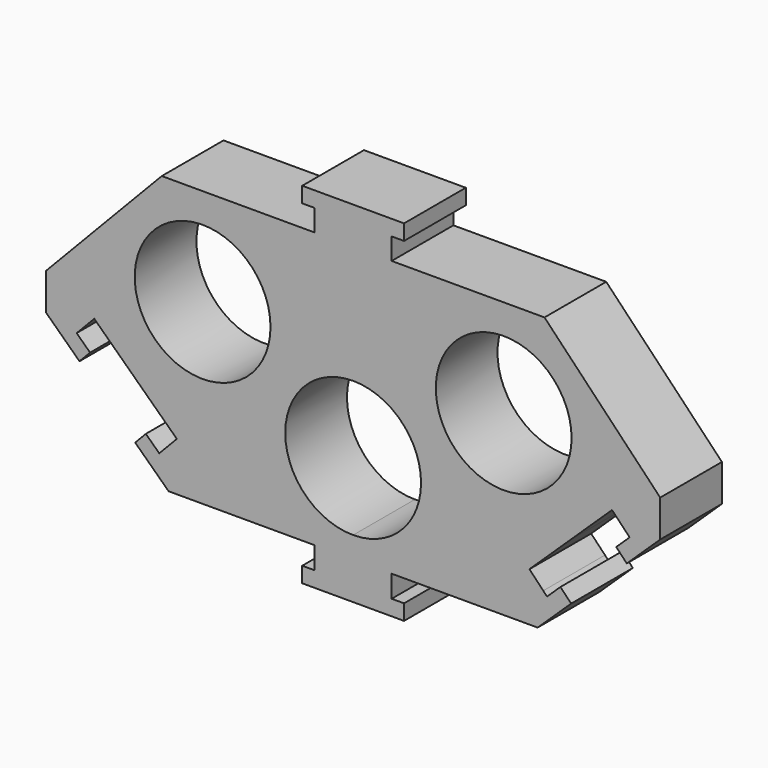
from build123d import *

# Parameters (mm, degrees)
F0_R     = 11.176
F1_DEPTH = 12.7


with BuildPart() as f1:
    # F0 (on Front) → F1 (new body)
    with BuildSketch(Plane.XZ):
        Polygon((1.7e-05, 36.721412), (-8.37922, 36.721412), (-8.37922, 34.171009), (-6.342577, 34.171009), (-6.342577, 33.589403), (-6.342577, 30.610587), (-31.50212, 30.610587), (-50.548049, 10.694886), (-50.548049, 4.618095), (-45.048748, -0.641037), (-43.30637, 1.18091), (-45.512976, 3.291148), (-44.893687, 3.938718), (-42.617581, 6.318767), (-42.432024, 6.141314), (-35.819507, -0.182417), (-29.021433, -6.6836), (-31.297539, -9.06365), (-31.916828, -9.711219), (-34.123434, -7.600982), (-35.883531, -9.438151), (-30.372486, -14.708514), (-6.342577, -14.708514), (-6.342577, -14.78279), (-6.342577, -17.761606), (-6.342577, -18.343212), (-8.37922, -18.343212), (-8.37922, -20.893615), (1.7e-05, -20.893615), (8.379254, -20.893615), (8.379254, -18.343212), (6.342612, -18.343212), (6.342612, -17.761606), (6.342612, -14.78279), (6.342612, -14.708514), (30.37252, -14.708514), (35.883565, -9.438151), (34.123468, -7.600982), (31.916862, -9.711219), (31.297574, -9.06365), (29.021468, -6.6836), (35.819542, -0.182417), (42.432059, 6.141314), (42.617615, 6.318767), (44.893722, 3.938718), (45.51301, 3.291148), (43.306404, 1.18091), (45.048782, -0.641037), (50.548084, 4.618095), (50.548084, 10.694886), (31.502155, 30.610587), (6.342612, 30.610587), (6.342612, 33.589403), (6.342612, 34.171009), (8.379254, 34.171009), (8.379254, 36.721412), align=None)
        with BuildLine():
            ThreePointArc((1.7e-05, -11.175947), (-11.175983, 5.3e-05), (1.7e-05, 11.176053))
            ThreePointArc((1.7e-05, 11.176053), (7.902643, 7.902678), (11.176017, 5.3e-05))
            ThreePointArc((11.176017, 5.3e-05), (7.902643, -7.902573), (1.7e-05, -11.175947))
        make_face(mode=Mode.SUBTRACT)
        with Locations((-24.782125, 14.556873)):
            Circle(F0_R, mode=Mode.SUBTRACT)
        with Locations((24.782159, 14.556873)):
            Circle(F0_R, mode=Mode.SUBTRACT)
        Polygon((1.7e-05, 36.721412), (-8.37922, 36.721412), (-8.37922, 34.171009), (-6.342577, 34.171009), (-6.342577, 33.589403), (-6.342577, 30.610587), (-31.50212, 30.610587), (-50.548049, 10.694886), (-50.548049, 4.618095), (-45.048748, -0.641037), (-43.30637, 1.18091), (-45.512976, 3.291148), (-44.893687, 3.938718), (-42.617581, 6.318767), (-42.432024, 6.141314), (-35.819507, -0.182417), (-29.021433, -6.6836), (-31.297539, -9.06365), (-31.916828, -9.711219), (-34.123434, -7.600982), (-35.883531, -9.438151), (-30.372486, -14.708514), (-6.342577, -14.708514), (-6.342577, -14.78279), (-6.342577, -17.761606), (-6.342577, -18.343212), (-8.37922, -18.343212), (-8.37922, -20.893615), (1.7e-05, -20.893615), (8.379254, -20.893615), (8.379254, -18.343212), (6.342612, -18.343212), (6.342612, -17.761606), (6.342612, -14.78279), (6.342612, -14.708514), (30.37252, -14.708514), (35.883565, -9.438151), (34.123468, -7.600982), (31.916862, -9.711219), (31.297574, -9.06365), (29.021468, -6.6836), (35.819542, -0.182417), (42.432059, 6.141314), (42.617615, 6.318767), (44.893722, 3.938718), (45.51301, 3.291148), (43.306404, 1.18091), (45.048782, -0.641037), (50.548084, 4.618095), (50.548084, 10.694886), (31.502155, 30.610587), (6.342612, 30.610587), (6.342612, 33.589403), (6.342612, 34.171009), (8.379254, 34.171009), (8.379254, 36.721412), align=None)
        with BuildLine():
            ThreePointArc((1.7e-05, -11.175947), (-11.175983, 5.3e-05), (1.7e-05, 11.176053))
            ThreePointArc((1.7e-05, 11.176053), (7.902643, 7.902678), (11.176017, 5.3e-05))
            ThreePointArc((11.176017, 5.3e-05), (7.902643, -7.902573), (1.7e-05, -11.175947))
        make_face(mode=Mode.SUBTRACT)
        with Locations((-24.782125, 14.556873)):
            Circle(F0_R, mode=Mode.SUBTRACT)
        with Locations((24.782159, 14.556873)):
            Circle(F0_R, mode=Mode.SUBTRACT)
    extrude(amount=F1_DEPTH)


solid = f1.part
